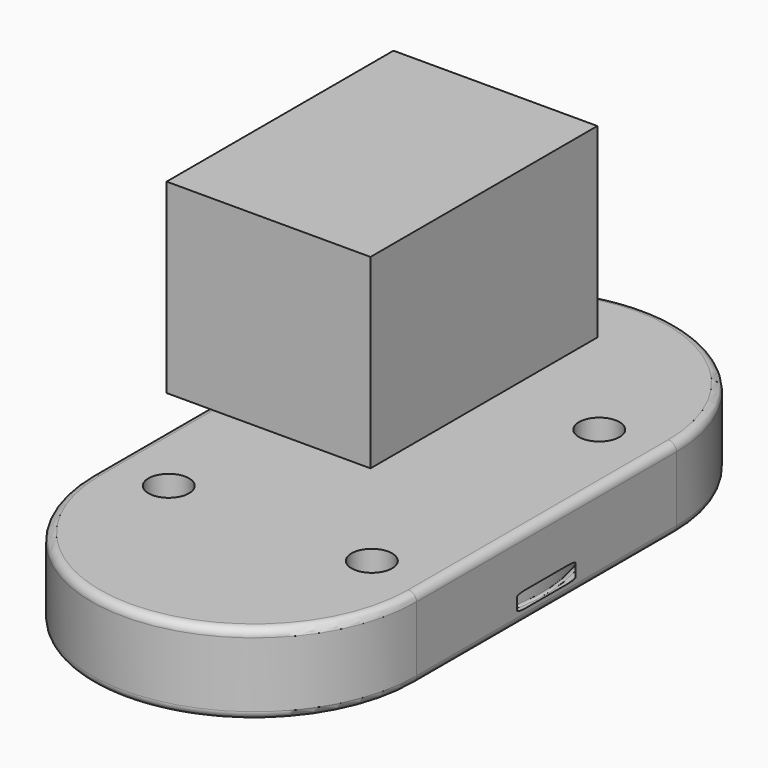
from build123d import *

# Parameters (mm, degrees)
F2_DEPTH = 25.4
F3_R     = 6.35
F4_DEPTH = 25.4
F7_R     = 2.54
F9_START = 50.8
F8_W     = 63.7585818768
F8_H     = 88.6783115566
F9_DEPTH = 58.21093


with BuildPart() as f2:
    # F0 (on Top) → F2 (new body)
    with BuildSketch(Plane.XY):
        with BuildLine():
            Line((-50.8, 50.8), (-50.8, -50.8))
            ThreePointArc((-50.8, -50.8), (0, -101.6), (50.8, -50.8))
            Line((50.8, -50.8), (50.8, 50.8))
            ThreePointArc((50.8, 50.8), (0, 101.6), (-50.8, 50.8))
        make_face()
    extrude(amount=F2_DEPTH)

    # F3 (on face) → F4 (cut)
    with BuildSketch(Plane.XY.offset(25.4)):
        with Locations((-31.75, 44.4499978687)):
            Circle(F3_R)
        with Locations((31.75, 44.4499978687)):
            Circle(F3_R)
        with Locations((31.75, -44.45)):
            Circle(F3_R)
        with Locations((-31.75, -44.45)):
            Circle(F3_R)
    extrude(amount=-F4_DEPTH, mode=Mode.SUBTRACT)

    # F1 (on Front) → F6 (revolve, cut)
    with BuildSketch(Plane.XZ):
        with BuildLine():
            Line((50.165, 3.81), (51.435, 3.81))
            ThreePointArc((51.435, 3.81), (51.8840128061, 3.9959871939), (52.07, 4.445))
            Line((52.07, 4.445), (52.07, 8.255))
            ThreePointArc((52.07, 8.255), (51.8840128061, 8.7040128061), (51.435, 8.89))
            Line((51.435, 8.89), (50.165, 8.89))
            ThreePointArc((50.165, 8.89), (49.7159871939, 8.7040128061), (49.53, 8.255))
            Line((49.53, 8.255), (49.53, 4.445))
            ThreePointArc((49.53, 4.445), (49.7159871939, 3.9959871939), (50.165, 3.81))
        make_face()
    revolve(axis=Axis((0, 0, -0.2835988998), (0, 0, -1)), mode=Mode.SUBTRACT)

    # F7
    f7_edges = [f2.edges().sort_by_distance(p)[0] for p in [
        (-50.8, 0, 25.4),
        (-50.8, 0, 0),
    ]]
    fillet(f7_edges, radius=F7_R)


with BuildPart() as f9:
    # F8 (on Top) → F9 (new body)
    with BuildSketch(Plane.XY.offset(F9_START)):
        with Locations((-0.4490092397, -0.2245064825)):
            Rectangle(F8_W, F8_H)
    extrude(amount=F9_DEPTH)


solid = Compound([f2.part, f9.part])
